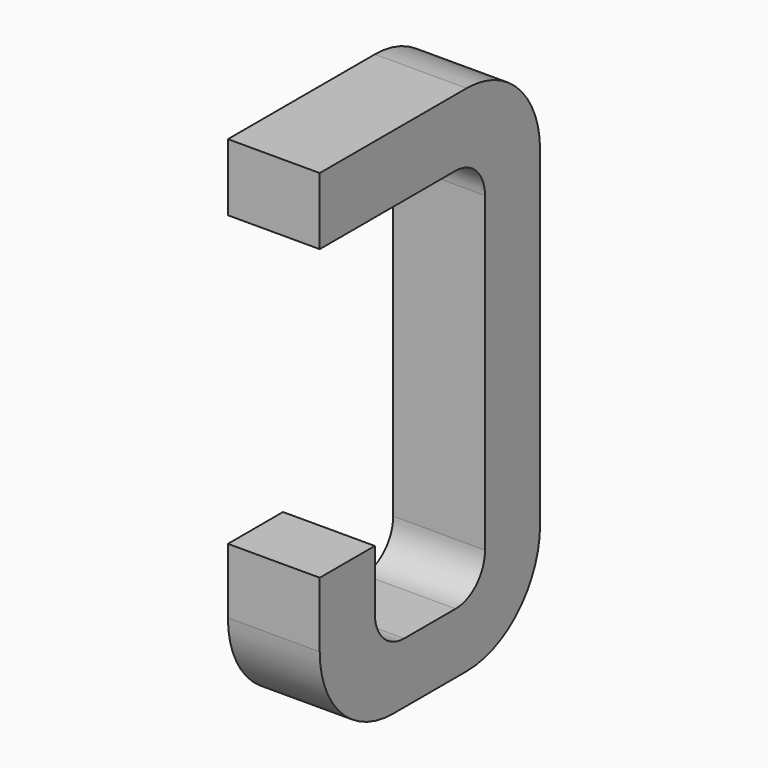
from build123d import *

# Parameters (mm, degrees)
BOX137_W     = 0.5
BOX137_H     = 1.5
BOX137_DEPTH = 2.795
FILLET337_R  = 0.5
FILLET269_R  = 0.5
FILLET353_R  = 0.5
BOX133_W     = 0.75
BOX133_H     = 2.1
BOX133_DEPTH = 1
FILLET350_R  = 0.2
FILLET310_R  = 0.2
FILLET344_R  = 0.2
FILLET347_R  = 0.2
BOX134_W     = 1
BOX134_H     = 1.575
BOX134_DEPTH = 3


with BuildPart() as part:
    # Box137 → Box137 (join)
    with BuildSketch(Plane(origin=(-0.25, 11.125, 0), x_dir=(1, 0, 0), z_dir=(0, 0, 1))):
        with Locations((0.25, 0.75)):
            Rectangle(BOX137_W, BOX137_H)
    extrude(amount=BOX137_DEPTH)

    # Fillet337
    fillet337_edges = [part.edges().sort_by_distance(p)[0] for p in [
        (0, 12.625, 0),
    ]]
    fillet(fillet337_edges, radius=FILLET337_R)

    # Fillet269
    fillet269_edges = [part.edges().sort_by_distance(p)[0] for p in [
        (0, 12.625, 2.795),
    ]]
    fillet(fillet269_edges, radius=FILLET269_R)

    # Fillet353
    fillet353_edges = [part.edges().sort_by_distance(p)[0] for p in [
        (0, 11.125, 0),
    ]]
    fillet(fillet353_edges, radius=FILLET353_R)

    # Box133 → Box133 (cut)
    with BuildSketch(Plane(origin=(-0.5, 11.5, 0.33), x_dir=(0, 1, 0), z_dir=(1, 0, 0))):
        with Locations((0.375, 1.05)):
            Rectangle(BOX133_W, BOX133_H)
    extrude(amount=BOX133_DEPTH, mode=Mode.SUBTRACT)

    # Fillet350
    fillet350_edges = [part.edges().sort_by_distance(p)[0] for p in [
        (0, 11.5, 0.33),
    ]]
    fillet(fillet350_edges, radius=FILLET350_R)

    # Fillet310
    fillet310_edges = [part.edges().sort_by_distance(p)[0] for p in [
        (0, 12.25, 0.33),
    ]]
    fillet(fillet310_edges, radius=FILLET310_R)

    # Fillet344
    fillet344_edges = [part.edges().sort_by_distance(p)[0] for p in [
        (0, 11.5, 2.43),
    ]]
    fillet(fillet344_edges, radius=FILLET344_R)

    # Fillet347
    fillet347_edges = [part.edges().sort_by_distance(p)[0] for p in [
        (0, 12.25, 2.43),
    ]]
    fillet(fillet347_edges, radius=FILLET347_R)

    # Box134 → Box134 (cut)
    with BuildSketch(Plane(origin=(-1, 11, 0.855), x_dir=(0, 1, 0), z_dir=(1, 0, 0))):
        with Locations((0.5, 0.7875)):
            Rectangle(BOX134_W, BOX134_H)
    extrude(amount=BOX134_DEPTH, mode=Mode.SUBTRACT)


with BuildPart() as part_1:
    # Body049 placement: moved
    add(part.part.moved(Location((8.89, 0, 0))))


solid = part_1.part
